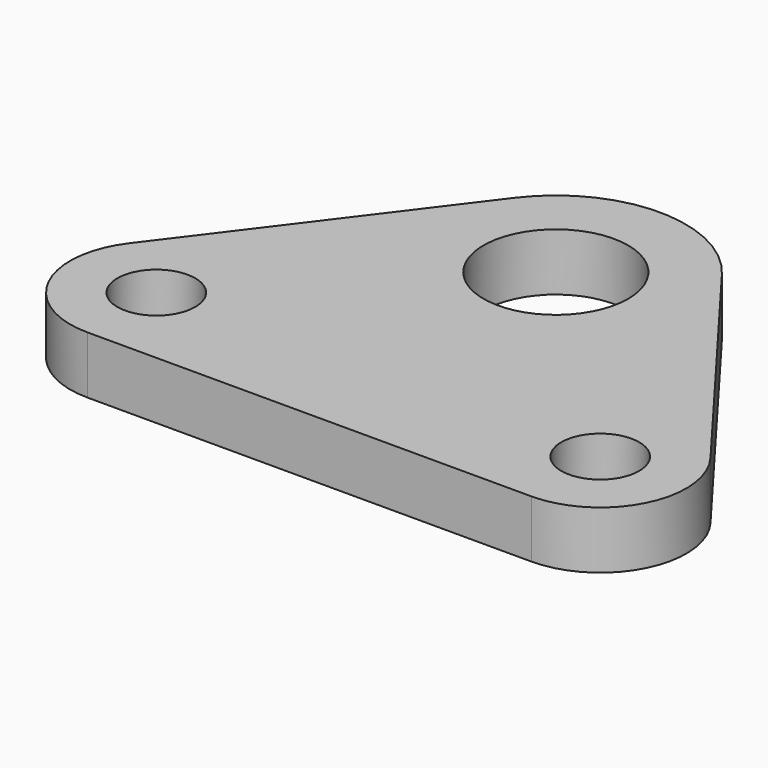
from build123d import *

# Parameters (mm, degrees)
F0_R     = 2.15265
F0_R_2   = 4
F1_DEPTH = 3.175


with BuildPart() as f1:
    # F0 (on Top) → F1 (new body)
    with BuildSketch(Plane.XY):
        with BuildLine():
            Line((16.078011, -9.408175), (5.729333, 4.319186))
            ThreePointArc((5.729333, 4.319186), (0, 7.175), (-5.729333, 4.319186))
            Line((-5.729333, 4.319186), (-16.078011, -9.408175))
            ThreePointArc((-16.078011, -9.408175), (-16.537432, -14.399676), (-12.275091, -17.037591))
            Line((-12.275091, -17.037591), (12.275091, -17.037591))
            ThreePointArc((12.275091, -17.037591), (16.537432, -14.399676), (16.078011, -9.408175))
        make_face()
        with Locations((-12.275091, -12.275091)):
            Circle(F0_R, mode=Mode.SUBTRACT)
        with Locations((12.275091, -12.275091)):
            Circle(F0_R, mode=Mode.SUBTRACT)
        Circle(F0_R_2, mode=Mode.SUBTRACT)
    extrude(amount=F1_DEPTH)


solid = f1.part
